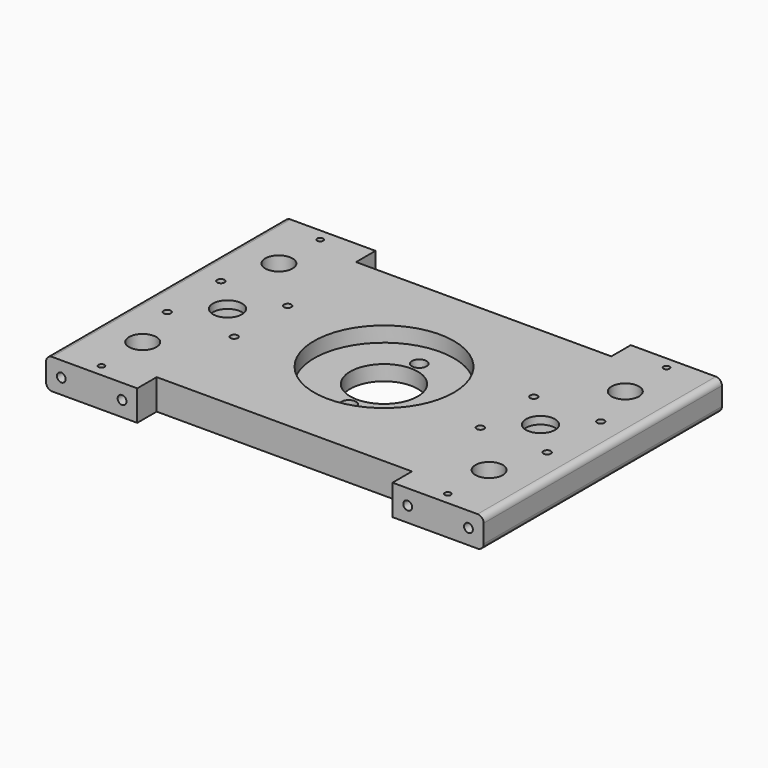
from build123d import *

# Parameters (mm, degrees)
CYLINDER028_R       = 4.8
CYLINDER028_DEPTH   = 10
CYLINDER016_R       = 1.2
CYLINDER016_DEPTH   = 20
ARRAY001006_X_COUNT = 2
ARRAY001006_X_PITCH = 22
ARRAY001006_Y_COUNT = 2
ARRAY001006_Y_PITCH = 22
CYLINDER026_R       = 12
CYLINDER026_DEPTH   = 10
CYLINDER027_R       = 4.5
CYLINDER027_DEPTH   = 24
ARRAY001008_Y_COUNT = 2
ARRAY001008_Y_PITCH = 56
CYLINDER040_R       = 1
CYLINDER040_DEPTH   = 20
ARRAY001022_Y_COUNT = 2
ARRAY001022_Y_PITCH = 90
CYLINDER039_R       = 1.45
CYLINDER039_DEPTH   = 40
ARRAY001020_X_COUNT = 2
ARRAY001020_X_PITCH = 20
ARRAY001020_Y_COUNT = 2
ARRAY001020_Y_PITCH = 80
CYLINDER037_R       = 23
CYLINDER037_DEPTH   = 30
CYLINDER036_R       = 2.4
CYLINDER036_DEPTH   = 30
ARRAY001018_Y_COUNT = 2
ARRAY001018_Y_PITCH = 29
CYLINDER029_R       = 11.1
CYLINDER029_DEPTH   = 30
BOX004_W            = 144
BOX004_H            = 82
BOX004_DEPTH        = 10
BOX019_W            = 30
BOX019_H            = 98
BOX019_DEPTH        = 10
FILLET004_R         = 2


with BuildPart() as bottom_side_lead_hole:
    # Cylinder028 → Cylinder028 (new body)
    with BuildSketch(Plane.XY.offset(4)):
        Circle(CYLINDER028_R)
    extrude(amount=CYLINDER028_DEPTH)


with BuildPart() as lead_holder_hole_array:
    # Cylinder016 → Cylinder016 (new body)
    with BuildSketch(Plane(origin=(-11, -11, 0), x_dir=(1, 0, 0), z_dir=(0, 0, 1))):
        Circle(CYLINDER016_R)
    extrude(amount=CYLINDER016_DEPTH)

    # Array001006 X: lead holder hole array ×2


with BuildPart() as lead_holder_hole_array_1:
    add(lead_holder_hole_array.part)
    with Locations(*[(i * ARRAY001006_X_PITCH, 0, 0) for i in range(1, ARRAY001006_X_COUNT)]):
        add(lead_holder_hole_array.part)

    # Array001006 Y: lead holder hole array ×2


with BuildPart() as lead_holder_hole_array_2:
    add(lead_holder_hole_array_1.part)
    with Locations(*[(0, i * ARRAY001006_Y_PITCH, 0) for i in range(1, ARRAY001006_Y_COUNT)]):
        add(lead_holder_hole_array_1.part)


with BuildPart() as lead_holder_hole_array_3:
    # Array001006 placement: moved
    add(lead_holder_hole_array_2.part.moved(Location((0, 0, -5))))


with BuildPart() as lead_bottom_hole_fusion:
    # Cylinder026 → Cylinder026 (new body)
    with BuildSketch(Plane.XY.offset(-2.5)):
        Circle(CYLINDER026_R)
    extrude(amount=CYLINDER026_DEPTH)

    # Fusion029: union bottom side lead hole, lead holder hole array
    add(bottom_side_lead_hole.part)
    add(lead_holder_hole_array_3.part)


with BuildPart() as lead_bottom_hole_fusion_1:
    # Fusion029 placement: moved
    add(lead_bottom_hole_fusion.part.moved(Location((20.5, 41, 0))))


with BuildPart() as rod_holder_hole_array_array:
    # Cylinder027 → Cylinder027 (new body)
    with BuildSketch(Plane.XY.offset(3)):
        Circle(CYLINDER027_R)
    extrude(amount=CYLINDER027_DEPTH)

    # Array001008 Y: rod holder hole array array ×2


with BuildPart() as rod_holder_hole_array_array_1:
    add(rod_holder_hole_array_array.part)
    with Locations(*[(0, i * ARRAY001008_Y_PITCH, 0) for i in range(1, ARRAY001008_Y_COUNT)]):
        add(rod_holder_hole_array_array.part)


with BuildPart() as rod_holder_hole_array_array_2:
    # Array001008 placement: moved
    add(rod_holder_hole_array_array_1.part.moved(Location((15, 13, 0))))


with BuildPart() as pusher_hole_array:
    # Cylinder040 → Cylinder040 (new body)
    with BuildSketch(Plane.XY.offset(-5)):
        Circle(CYLINDER040_R)
    extrude(amount=CYLINDER040_DEPTH)

    # Array001022 Y: pusher hole array ×2


with BuildPart() as pusher_hole_array_1:
    add(pusher_hole_array.part)
    with Locations(*[(0, i * ARRAY001022_Y_PITCH, 0) for i in range(1, ARRAY001022_Y_COUNT)]):
        add(pusher_hole_array.part)


with BuildPart() as pusher_hole_array_2:
    # Array001022 placement: moved
    add(pusher_hole_array_1.part.moved(Location((15, -4, 0))))


with BuildPart() as bottom_hole_fusion:
    # Cylinder039 → Cylinder039 (new body)
    with BuildSketch(Plane(origin=(0, 0, 5), x_dir=(1, 0, 0), z_dir=(0, -1, 0))):
        Circle(CYLINDER039_R)
    extrude(amount=CYLINDER039_DEPTH)

    # Array001020 X: bottom hole fusion ×2


with BuildPart() as bottom_hole_fusion_1:
    add(bottom_hole_fusion.part)
    with Locations(*[(i * ARRAY001020_X_PITCH, 0, 0) for i in range(1, ARRAY001020_X_COUNT)]):
        add(bottom_hole_fusion.part)

    # Array001020 Y: bottom hole fusion ×2


with BuildPart() as bottom_hole_fusion_2:
    add(bottom_hole_fusion_1.part)
    with Locations(*[(0, i * ARRAY001020_Y_PITCH, 0) for i in range(1, ARRAY001020_Y_COUNT)]):
        add(bottom_hole_fusion_1.part)


with BuildPart() as bottom_hole_fusion_3:
    # Array001020 placement: moved
    add(bottom_hole_fusion_2.part.moved(Location((0, 20, 0))))


with BuildPart() as bottom_hole_fusion_4:
    # Clone007 placement: moved
    add(bottom_hole_fusion_3.part.moved(Location((0, 7, 0))))


with BuildPart() as bottom_hole_fusion_5:
    # Body007 placement: moved
    add(bottom_hole_fusion_4.part.moved(Location((5, 0, 0))))

    # Fusion012: union lead bottom hole fusion, rod holder hole array array, pusher hole array
    add(lead_bottom_hole_fusion_1.part)
    add(rod_holder_hole_array_array_2.part)
    add(pusher_hole_array_2.part)


with BuildPart() as dc_motor_body_bottom_hole:
    # Cylinder037 → Cylinder037 (new body)
    with BuildSketch(Plane.XY.offset(5)):
        Circle(CYLINDER037_R)
    extrude(amount=CYLINDER037_DEPTH)


with BuildPart() as dc_motor_bolt_hole_array:
    # Cylinder036 → Cylinder036 (new body)
    with BuildSketch(Plane.XY):
        Circle(CYLINDER036_R)
    extrude(amount=CYLINDER036_DEPTH)

    # Array001018 Y: dc motor bolt hole array ×2


with BuildPart() as dc_motor_bolt_hole_array_1:
    add(dc_motor_bolt_hole_array.part)
    with Locations(*[(0, i * ARRAY001018_Y_PITCH, 0) for i in range(1, ARRAY001018_Y_COUNT)]):
        add(dc_motor_bolt_hole_array.part)


with BuildPart() as dc_motor_bolt_hole_array_2:
    # Array001018 placement: moved
    add(dc_motor_bolt_hole_array_1.part.moved(Location((0, -14.5, -6))))


with BuildPart() as dc_motor_bottom_hole_fusion:
    # Cylinder029 → Cylinder029 (new body)
    with BuildSketch(Plane.XY):
        Circle(CYLINDER029_R)
    extrude(amount=CYLINDER029_DEPTH)

    # Fusion028: union dc motor body bottom hole, dc motor bolt hole array
    add(dc_motor_body_bottom_hole.part)
    add(dc_motor_bolt_hole_array_2.part)


with BuildPart() as dc_motor_bottom_hole_fusion_1:
    # Fusion028 placement: moved
    add(dc_motor_bottom_hole_fusion.part.moved(Location((72, 41, 0))))


with BuildPart() as bottom_hole_mirrored_fusion:
    # Part__Mirroring003: instance of bottom hole fusion
    add(bottom_hole_fusion_5.part.mirror(Plane(origin=(72, 0, 0), x_dir=(0, -1, 0), z_dir=(1, 0, 0))))

    # Fusion030: union bottom hole fusion, dc motor bottom hole fusion
    add(bottom_hole_fusion_5.part)
    add(dc_motor_bottom_hole_fusion_1.part)


with BuildPart() as bottom_side_cube:
    # Box004 → Box004 (new body)
    with BuildSketch(Plane.XY):
        with Locations((72, 41)):
            Rectangle(BOX004_W, BOX004_H)
    extrude(amount=BOX004_DEPTH)


with BuildPart() as bottom_side_cube_extension:
    # Box019 → Box019 (new body)
    with BuildSketch(Plane(origin=(0, -8, 0), x_dir=(1, 0, 0), z_dir=(0, 0, 1))):
        with Locations((15, 49)):
            Rectangle(BOX019_W, BOX019_H)
    extrude(amount=BOX019_DEPTH)


with BuildPart() as part_mirroring002:
    # Part__Mirroring002: instance of bottom side cube extension
    add(bottom_side_cube_extension.part.mirror(Plane(origin=(72, 0, 0), x_dir=(0, -1, 0), z_dir=(1, 0, 0))))


with BuildPart() as bottom_side_fillet:
    # Fusion014 base: copy of bottom side cube extension
    add(bottom_side_cube_extension.part)

    # Fusion014: union bottom side cube, Part__Mirroring002
    add(bottom_side_cube.part)
    add(part_mirroring002.part)

    # Cut004: cut bottom hole mirrored fusion
    add(bottom_hole_mirrored_fusion.part, mode=Mode.SUBTRACT)

    # Fillet004
    fillet004_edges = [bottom_side_fillet.edges().sort_by_distance(p)[0] for p in [
        (0, -4, 10),
        (0, -4, 0),
        (0, 41, 10),
        (0, 41, 0),
        (0, 86, 10),
        (0, 86, 0),
        (144, 41, 10),
        (144, 41, 0),
        (144, 86, 10),
        (144, -4, 10),
        (144, -4, 0),
        (144, 86, 0),
    ]]
    fillet(fillet004_edges, radius=FILLET004_R)


solid = bottom_side_fillet.part
